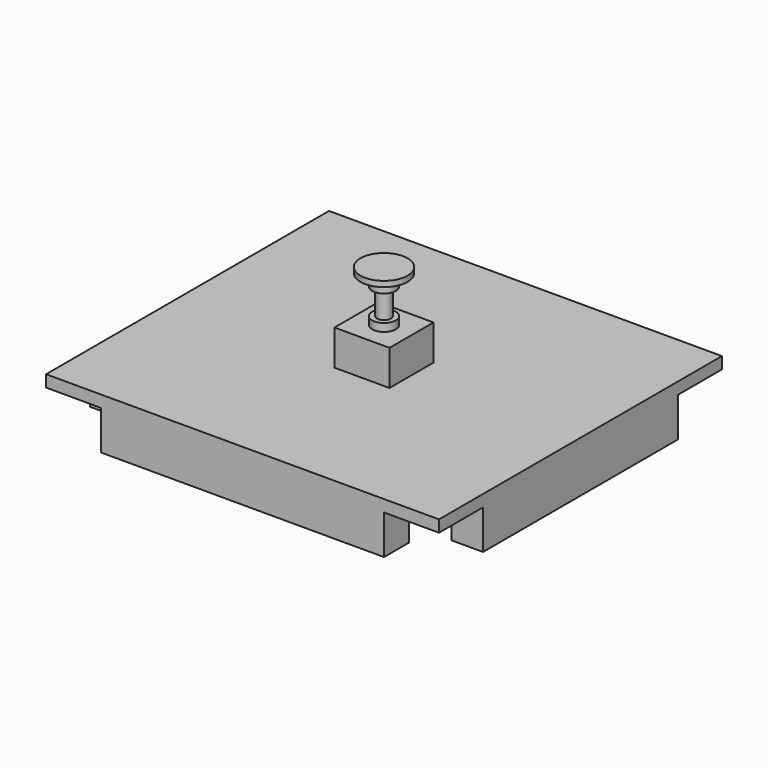
from build123d import *

# Parameters (mm, degrees)
F0_W      = 40
F0_H      = 310
F0_W_2    = 360
F0_H_2    = 40
F1_DEPTH  = 15
F2_DEPTH  = 50
F3_D      = 8.5
F4_W      = 70
F4_H      = 70
F5_DEPTH  = 60
F6_R      = 15
F7_DEPTH  = 10
F8_R      = 8.75
F9_DEPTH  = 33
F10_R     = 15
F10_R_2   = 8.75
F11_DEPTH = 15
F12_R     = 30
F12_R_2   = 15
F13_DEPTH = 7
F14_R     = 15
F15_DEPTH = 50


with BuildPart() as f1:
    # F0 (on Top) → F1 (new body)
    with BuildSketch(Plane.XY):
        Polygon((180, -225), (250, -225), (250, -155), (210, -155), (210, 155), (250, 155), (250, 225), (180, 225), (180, 185), (-180, 185), (-180, 225), (-250, 225), (-250, 155), (-210, 155), (-210, -155), (-250, -155), (-250, -225), (-180, -225), (-180, -185), (180, -185), align=None)
        with Locations((-230, 0)):
            Rectangle(F0_W, F0_H)
        with Locations((0, 205)):
            Rectangle(F0_W_2, F0_H_2)
        with Locations((230, 0)):
            Rectangle(F0_W, F0_H)
        with Locations((0, -205)):
            Rectangle(F0_W_2, F0_H_2)
    extrude(amount=F1_DEPTH)

    # F0 (on Top) → F2 (join)
    with BuildSketch(Plane.XY):
        with Locations((0, -205)):
            Rectangle(F0_W_2, F0_H_2)
        with Locations((-230, 0)):
            Rectangle(F0_W, F0_H)
        with Locations((0, 205)):
            Rectangle(F0_W_2, F0_H_2)
        with Locations((230, 0)):
            Rectangle(F0_W, F0_H)
    extrude(amount=-F2_DEPTH)

    # F3 (through all)
    with Locations(Plane(origin=(0, 0, 0), x_dir=(1, 0, 0), z_dir=(0, 0, -1))):
        with Locations((0, 0)):
            Hole(F3_D / 2)


with BuildPart() as f5:
    # F4 (on Top) → F5 (new body)
    with BuildSketch(Plane.XY):
        Rectangle(F4_W, F4_H)
    extrude(amount=F5_DEPTH)

    # F6 (on face) → F7 (join)
    with BuildSketch(Plane.XY.offset(60)):
        Circle(F6_R)
    extrude(amount=F7_DEPTH)

    # F8 (on face) → F9 (join)
    with BuildSketch(Plane.XY.offset(70)):
        Circle(F8_R)
    extrude(amount=F9_DEPTH)

    # F10 (on face) → F11 (join)
    with BuildSketch(Plane.XY.offset(103)):
        Circle(F10_R)
        Circle(F10_R_2, mode=Mode.SUBTRACT)
        Circle(F10_R_2)
    extrude(amount=F11_DEPTH)

    # F12 (on face) → F13 (join)
    with BuildSketch(Plane.XY.offset(118)):
        Circle(F12_R)
        Circle(F12_R_2, mode=Mode.SUBTRACT)
        Circle(F12_R_2)
    extrude(amount=F13_DEPTH)

    # F14 (on face) → F15 (join)
    with BuildSketch(Plane(origin=(0, 0, 0), x_dir=(1, 0, 0), z_dir=(0, 0, -1))):
        Circle(F14_R)
    extrude(amount=F15_DEPTH)


solid = Compound([f1.part, f5.part])
